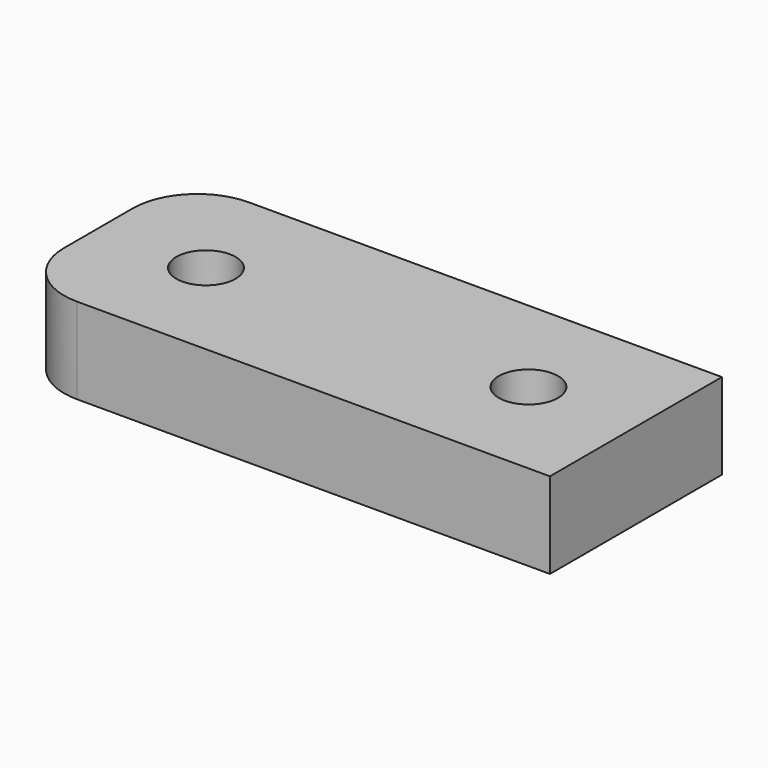
from build123d import *

# Parameters (mm, degrees)
CYLINDER061_R     = 1.38
CYLINDER061_DEPTH = 10
CYLINDER055_R     = 1.38
CYLINDER055_DEPTH = 10
BOX031_W          = 25
BOX031_H          = 10
BOX031_DEPTH      = 4
FILLET005_R       = 3


with BuildPart() as cylinder061:
    # Cylinder061 → Cylinder061 (new body)
    with BuildSketch(Plane(origin=(25, 52, 59), x_dir=(1, 0, 0), z_dir=(0, 0, 1))):
        Circle(CYLINDER061_R)
    extrude(amount=CYLINDER061_DEPTH)


with BuildPart() as cylinder055:
    # Cylinder055 → Cylinder055 (new body)
    with BuildSketch(Plane(origin=(40, 52, 59), x_dir=(1, 0, 0), z_dir=(0, 0, 1))):
        Circle(CYLINDER055_R)
    extrude(amount=CYLINDER055_DEPTH)


with BuildPart() as fillet005:
    # Box031 → Box031 (new body)
    with BuildSketch(Plane(origin=(45, 57, 62), x_dir=(-1, 0, 0), z_dir=(0, 0, 1))):
        with Locations((12.5, 5)):
            Rectangle(BOX031_W, BOX031_H)
    extrude(amount=BOX031_DEPTH)

    # Cut040: cut Cylinder055
    add(cylinder055.part, mode=Mode.SUBTRACT)

    # Cut033: cut Cylinder061
    add(cylinder061.part, mode=Mode.SUBTRACT)

    # Fillet005
    fillet005_edges = [fillet005.edges().sort_by_distance(p)[0] for p in [
        (20, 57, 64),
        (20, 47, 64),
    ]]
    fillet(fillet005_edges, radius=FILLET005_R)


with BuildPart() as fillet005_1:
    # Fillet005 placement: moved
    add(fillet005.part.moved(Location((-2, 129, 0))))


solid = fillet005_1.part
